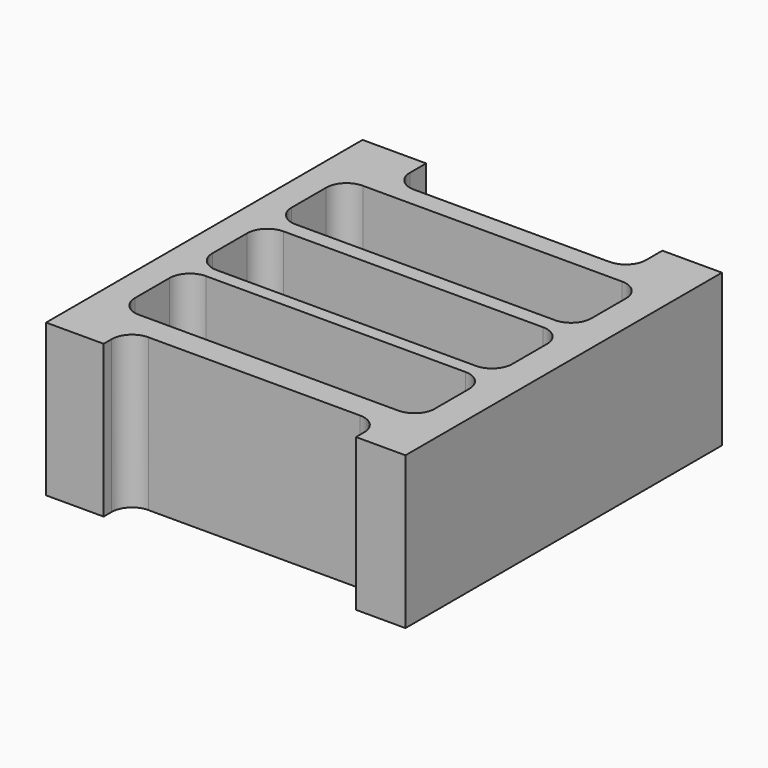
from build123d import *

# Parameters (mm, degrees)
F0_W     = 89.995448
F0_H     = 99.06
F1_DEPTH = 38.1
F2_W     = 75.08048
F2_H     = 20.982087
F2_H_2   = 20.982086
F3_DEPTH = 38.1
F4_R     = 5.08
F5_W     = 59.154313
F5_H     = 38.1
F6_DEPTH = 10.16
F7_R     = 5.08
F8_W     = 63.199052
F8_H     = 38.1
F9_DEPTH = 7.62
F10_R    = 5.08


with BuildPart() as f1:
    # F0 (on Top) → F1 (new body)
    with BuildSketch(Plane.XY):
        with Locations((-3.918344, -0.650048)):
            Rectangle(F0_W, F0_H)
    extrude(amount=F1_DEPTH)

    # F2 (on face) → F3 (cut)
    with BuildSketch(Plane.XY.offset(38.1)):
        with Locations((-4.297534, 23.257251)):
            Rectangle(F2_W, F2_H)
        with Locations((-4.297534, -1.516776)):
            Rectangle(F2_W, F2_H_2)
        with Locations((-4.297534, -25.785215)):
            Rectangle(F2_W, F2_H)
    extrude(amount=-F3_DEPTH, mode=Mode.SUBTRACT)

    # F4
    f4_edges = [f1.edges().sort_by_distance(p)[0] for p in [
        (33.242706, 33.748295, 19.05),
        (33.242706, 8.974267, 19.05),
        (33.242706, -15.294172, 19.05),
        (-41.837774, 33.748295, 19.05),
        (-41.837774, 8.974267, 19.05),
        (-41.837774, -15.294172, 19.05),
        (-41.837774, -36.276259, 19.05),
        (-41.837774, -12.007819, 19.05),
        (-41.837774, 12.766208, 19.05),
        (33.242706, -36.276259, 19.05),
        (33.242706, -12.007819, 19.05),
        (33.242706, 12.766208, 19.05),
    ]]
    fillet(f4_edges, radius=F4_R)

    # F5 (on face) → F6 (cut)
    with BuildSketch(Plane(origin=(0, 48.879952, 0), x_dir=(-1, 0, 0), z_dir=(0, 1, 0))):
        with Locations((3.412747, 19.05)):
            Rectangle(F5_W, F5_H)
    extrude(amount=-F6_DEPTH, mode=Mode.SUBTRACT)

    # F7
    f7_edges = [f1.edges().sort_by_distance(p)[0] for p in [
        (-32.989904, 38.719952, 19.05),
        (26.164409, 38.719952, 19.05),
    ]]
    fillet(f7_edges, radius=F7_R)

    # F8 (on face) → F9 (cut)
    with BuildSketch(Plane.XZ.offset(50.180048)):
        with Locations((-2.907156, 19.05)):
            Rectangle(F8_W, F8_H)
    extrude(amount=-F9_DEPTH, mode=Mode.SUBTRACT)

    # F10
    f10_edges = [f1.edges().sort_by_distance(p)[0] for p in [
        (28.69237, -42.560048, 19.05),
        (-34.506682, -42.560048, 19.05),
    ]]
    fillet(f10_edges, radius=F10_R)


solid = f1.part
